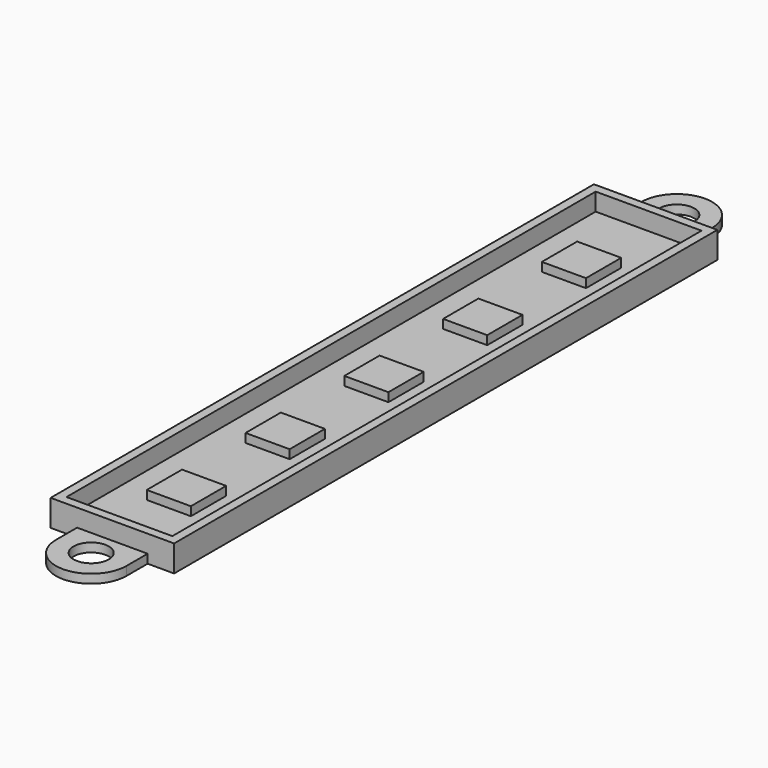
from build123d import *

# Parameters (mm, degrees)
SKETCH_R     = 2
PAD_DEPTH    = 1
SKETCH001_W  = 14
SKETCH001_H  = 77
PAD001_DEPTH = 3
SKETCH002_W  = 12
SKETCH002_H  = 75
POCKET_DEPTH = 2
SKETCH003_W  = 5
SKETCH003_H  = 5
PAD002_DEPTH = 2


with BuildPart() as part:
    # Sketch → Pad (new body)
    with BuildSketch(Plane.XY):
        with BuildLine():
            Line((7, 38.5), (7, -38.5))
            Line((7, -38.5), (4, -38.5))
            Line((4, -38.5), (4, -41.5))
            ThreePointArc((-4, -41.5), (0, -45.5), (4, -41.5))
            Line((-4, -38.5), (-4, -41.5))
            Line((-7, -38.5), (-4, -38.5))
            Line((-7, 38.5), (-7, -38.5))
            Line((-7, 38.5), (-4, 38.5))
            Line((-4, 41.5), (-4, 38.5))
            ThreePointArc((4, 41.5), (0, 45.500017), (-4, 41.5))
            Line((4, 41.5), (4, 38.5))
            Line((4, 38.5), (7, 38.5))
        make_face()
        with Locations((0, -41.5)):
            Circle(SKETCH_R, mode=Mode.SUBTRACT)
        with Locations((0, 41.500017)):
            Circle(SKETCH_R, mode=Mode.SUBTRACT)
    extrude(amount=PAD_DEPTH)

    # Sketch001 → Pad001 (join)
    with BuildSketch(Plane.XY):
        Rectangle(SKETCH001_W, SKETCH001_H)
    extrude(amount=PAD001_DEPTH)

    # Sketch002 (on Face17 of Pad001) → Pocket (cut)
    with BuildSketch(Plane.XY.offset(3)):
        Rectangle(SKETCH002_W, SKETCH002_H)
    extrude(amount=-POCKET_DEPTH, mode=Mode.SUBTRACT)

    # Sketch003 → Pad002 (join)
    with BuildSketch(Plane.XY):
        with Locations((0, 28)):
            Rectangle(SKETCH003_W, SKETCH003_H)
        with Locations((0, 14)):
            Rectangle(SKETCH003_W, SKETCH003_H)
        Rectangle(SKETCH003_W, SKETCH003_H)
        with Locations((0, -14)):
            Rectangle(SKETCH003_W, SKETCH003_H)
        with Locations((0, -28)):
            Rectangle(SKETCH003_W, SKETCH003_H)
    extrude(amount=PAD002_DEPTH)


solid = part.part
